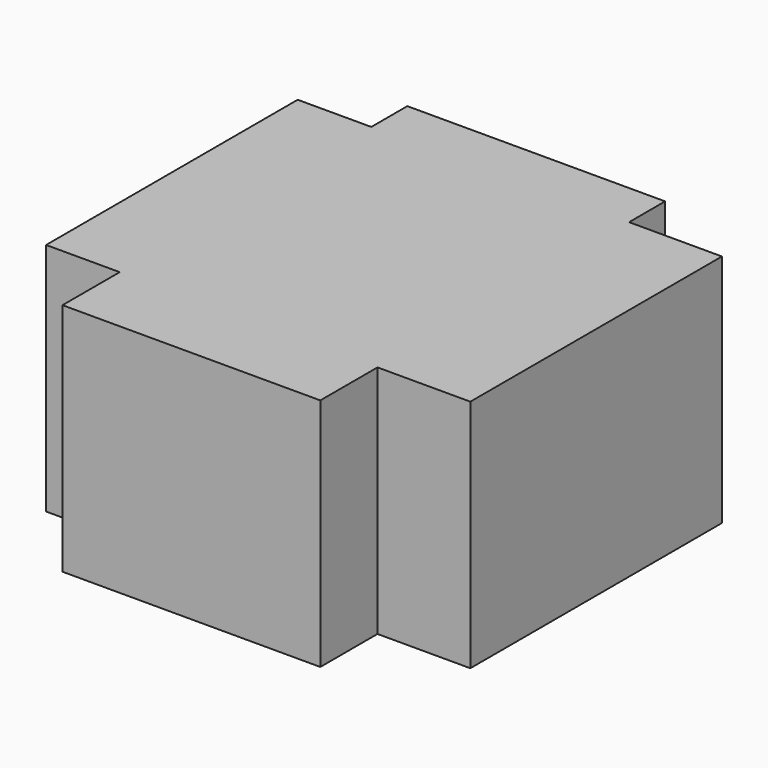
from build123d import *

# Parameters (mm, degrees)
F0_W     = 71.1462683976
F0_H     = 12.4341472983
F0_H_2   = 86.7933481932
F0_W_2   = 20.3155428171
F0_W_3   = 25.621894747
F0_H_3   = 19.7277143598
F1_DEPTH = 64.77


with BuildPart() as f1:
    # F0 (on Top) → F1 (new body)
    with BuildSketch(Plane.XY):
        with Locations((0.3257188946, 52.3910969496)):
            Rectangle(F0_W, F0_H)
        with Locations((0.3257188946, 2.7773492038)):
            Rectangle(F0_W, F0_H_2)
        with Locations((-45.4051867127, 2.7773492038)):
            Rectangle(F0_W_2, F0_H_2)
        with Locations((48.7098004669, 2.7773492038)):
            Rectangle(F0_W_3, F0_H_2)
        with Locations((0.3257188946, -50.4831820726)):
            Rectangle(F0_W, F0_H_3)
    extrude(amount=F1_DEPTH)


solid = f1.part
